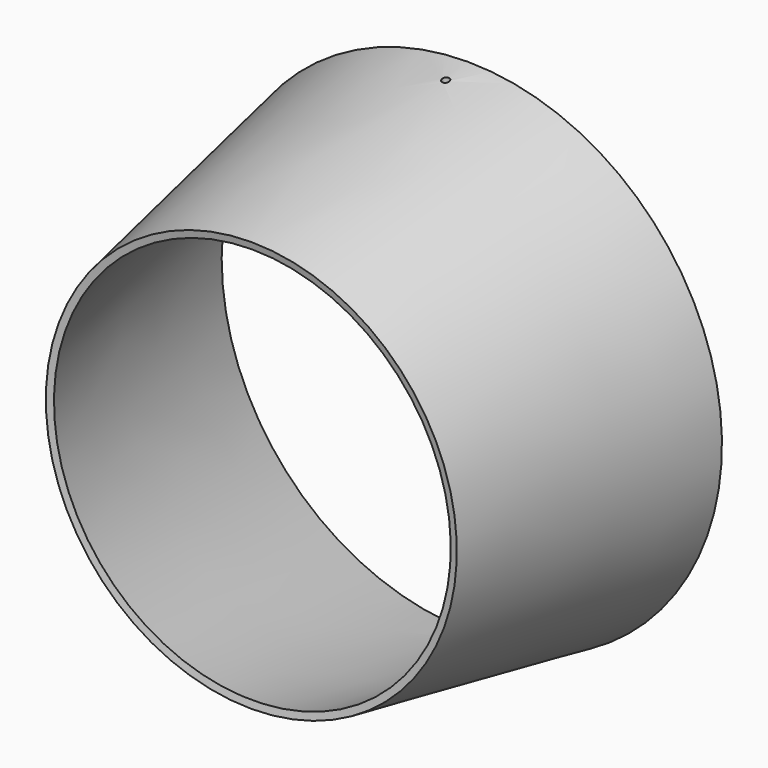
from build123d import *

# Parameters (mm, degrees)
F2_R          = 0.5
F3_DEPTH      = 35.2358175736
F3_DEPTH_BACK = 35.2358175736


with BuildPart() as f1:
    # F0 (on Right) → F1 (revolve)
    with BuildSketch(Plane.YZ):
        Polygon((-33.4971847797, 27.5), (4, 34.2506394954), (3.822817861, 35.2348175736), (-33.6743669187, 28.4841780782), align=None)
    revolve(axis=Axis((0, 2, 0), (0, -1, 0)))

    # F2 (on Top) → F3 (cut, two sides)
    with BuildSketch(Plane.XY) as f3_sk:
        Circle(F2_R)
    extrude(amount=-F3_DEPTH, mode=Mode.SUBTRACT)
    extrude(f3_sk.sketch, amount=F3_DEPTH_BACK, mode=Mode.SUBTRACT)


solid = f1.part
